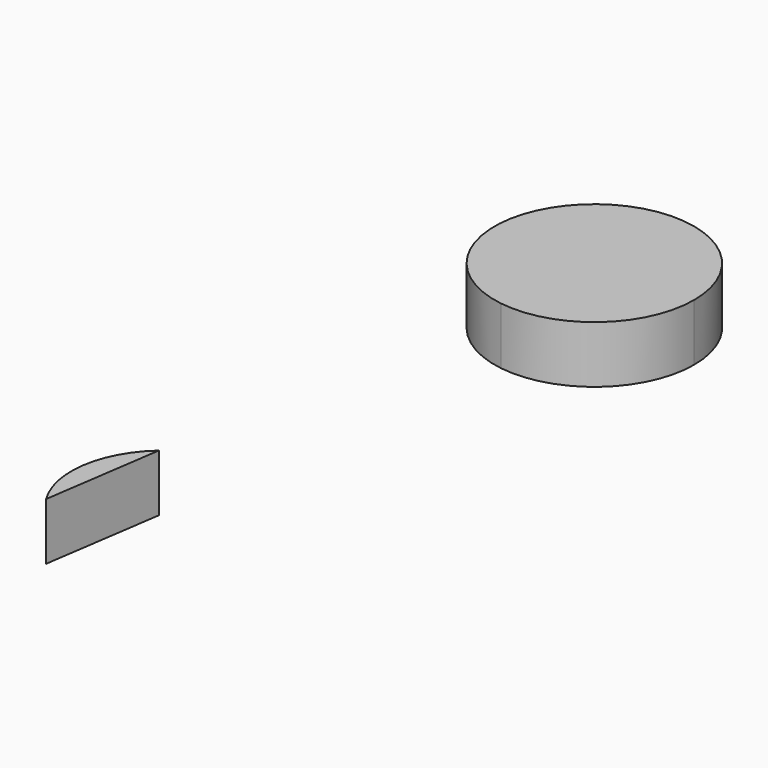
from build123d import *

# Parameters (mm, degrees)
F1_DEPTH = 27.178


with BuildPart() as f1:
    # F0 (on Top) → F1 (new body)
    with BuildSketch(Plane.XY):
        with BuildLine():
            ThreePointArc((6.316541, 132.702157), (-72.325812, 168.691615), (-48.155493, 85.651525))
            ThreePointArc((-48.155493, 85.651525), (-10.153478, 96.712699), (6.316541, 132.702157))
        make_face()
        with BuildLine():
            ThreePointArc((-73.45526, -86.470561), (-88.047509, -113.323145), (-81.799499, -143.238983))
            Line((-81.799499, -143.238983), (-73.45526, -86.470561))
        make_face()
    extrude(amount=-F1_DEPTH)


solid = f1.part
